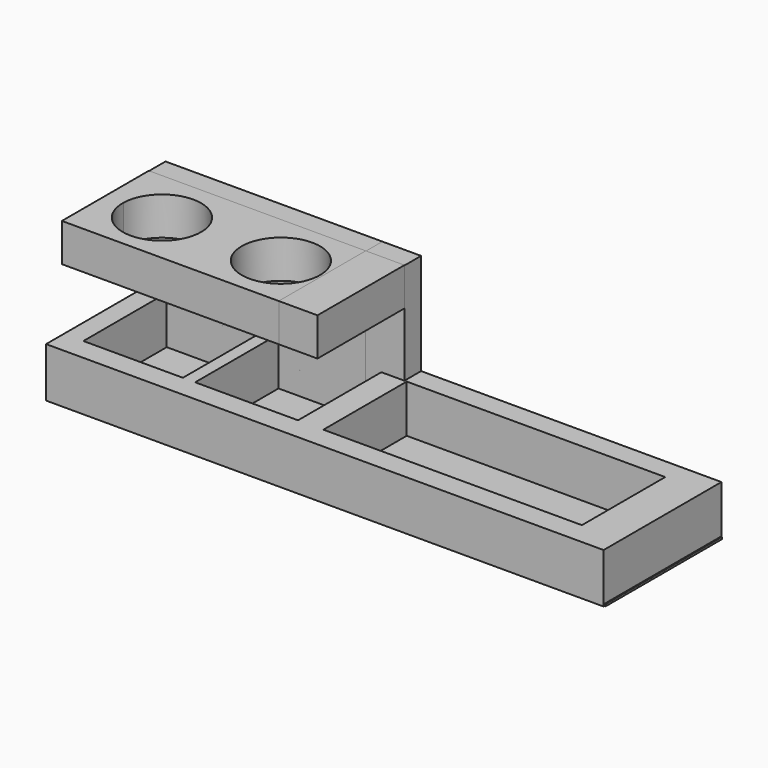
from build123d import *

# Parameters (mm, degrees)
F0_W       = 4.9786263525
F0_H       = 26.6018912433
F0_W_2     = 3.1365140617
F0_W_3     = 6.4744432457
F0_W_4     = 10.0902765989
F1_DEPTH   = 12.7
F2_W       = 142.7084766328
F2_H       = 37.0778064243
F3_DEPTH   = 0.508
F4_W       = 55.372
F4_H       = 57.9078740149
F5_DEPTH   = 5.3221732378
F6_W       = 55.372
F6_H       = 9.7205181286
F7_DEPTH   = 27.75094
F9_DEPTH   = 10.61823
F10_DEPTH  = 9.88126
F11_DEPTH  = 9.88126
F5_FACE2_W = 55.372
F5_FACE2_H = 5.3221732378
F10_FACE_W = 9.88126
F10_FACE_H = 5.3221732378
F12_DEPTH  = 19.31216


with BuildPart() as f1:
    # F0 (on Top) → F1 (new body)
    with BuildSketch(Plane.XY):
        with Locations((-53.2893131763, -13.3009456217)):
            Rectangle(F0_W, F0_H)
        Polygon((10.4725733399, -26.6018912433), (3.9981300943, -26.6018912433), (0, -26.6018912433), (-22.2634859383, -26.6018912433), (-25.4, -26.6018912433), (-50.8, -26.6018912433), (-55.7786263525, -26.6018912433), (-55.7786263525, -32.287850976), (-24.910023436, -32.287850976), (0, -32.287850976), (10.4725733399, -32.287850976), (86.5653529763, -32.287850976), (86.5653529763, -26.6018912433), (76.4750763774, -26.6018912433), align=None)
        Polygon((-22.2634859383, 0), (0, 0), (3.9981300943, 0), (10.4725733399, 0), (76.4750763774, 0), (86.5653529763, 0), (86.5653529763, 5.3221732378), (-55.7786263525, 5.3221732378), (-55.7786263525, 0), (-50.8, 0), (-25.4, 0), align=None)
        with Locations((-23.8317429692, -13.3009456217)):
            Rectangle(F0_W_2, F0_H)
        with Locations((7.2353517171, -13.3009456217)):
            Rectangle(F0_W_3, F0_H)
        with Locations((81.5202146769, -13.3009456217)):
            Rectangle(F0_W_4, F0_H)
    extrude(amount=F1_DEPTH)


with BuildPart() as f3:
    # F2 (on Top) → F3 (new body)
    with BuildSketch(Plane.XY):
        with Locations((15.4770556837, -13.3941362146)):
            Rectangle(F2_W, F2_H)
    extrude(amount=F3_DEPTH)


with BuildPart() as f5:
    # F4 (on Front) → F5 (new body, through all)
    with BuildSketch(Plane.XZ):
        with Locations((-27.686, 28.9539370074)):
            Rectangle(F4_W, F4_H)
    extrude(amount=-F5_DEPTH)


with BuildPart() as f7:
    # F6 (on face) → F7 (new body)
    with BuildSketch(Plane.XZ):
        with Locations((-27.686, 33.8141960718)):
            Rectangle(F6_W, F6_H)
    extrude(amount=F7_DEPTH)

    # F8 (on face) → F9 (cut)
    with BuildSketch(Plane.XY.offset(38.6744551361)):
        with BuildLine():
            ThreePointArc((-50.6908426751, -13.87547), (-40.8375723886, -24.1597420764), (-30.6949130145, -14.160759713))
            ThreePointArc((-30.6949130145, -14.160759713), (-30.6959306511, -14.018100339), (-30.6989833539, -13.87547))
            Line((-30.6989833539, -13.87547), (-50.6908426751, -13.87547))
        make_face()
        with BuildLine():
            ThreePointArc((-0.5591397732, -13.87547), (-10.5591397732, -3.87547), (-20.5591397732, -13.87547))
            Line((-20.5591397732, -13.87547), (-0.5591397732, -13.87547))
        make_face()
        with BuildLine():
            Line((-0.5591397732, -13.87547), (-20.5591397732, -13.87547))
            ThreePointArc((-20.5591397732, -13.87547), (-10.5591397732, -23.87547), (-0.5591397732, -13.87547))
        make_face()
        with BuildLine():
            Line((-50.6908426751, -13.87547), (-30.6989833539, -13.87547))
            ThreePointArc((-30.6989833539, -13.87547), (-40.6949130145, -4.160759713), (-50.6908426751, -13.87547))
        make_face()
    extrude(amount=-F9_DEPTH, mode=Mode.SUBTRACT)


with BuildPart() as f10:
    # F10 (new): a face of the model
    f10_faces = [f5.part.faces().sort_by_distance(p)[0] for p in [
        (0, 2.6610866189, 28.9539370074),
    ]]
    extrude(f10_faces, amount=F10_DEPTH)


with BuildPart() as f11:
    # F11 (new, through all): a face of the model
    f11_faces = [f7.part.faces().sort_by_distance(p)[0] for p in [
        (0, -13.87547, 33.8141960718),
    ]]
    extrude(f11_faces, amount=F11_DEPTH)


with BuildPart() as f12_tool:
    # F5_face2 (on face) + F10_face (on face) → F12 (new body)
    with BuildSketch(Plane(origin=(-27.686, 2.6610866189, 57.9078740149), x_dir=(1, 0, 0), z_dir=(0, 0, 1))):
        Rectangle(F5_FACE2_W, F5_FACE2_H)
    with BuildSketch(Plane(origin=(4.94063, 2.6610866189, 57.9078740149), x_dir=(1, 0, 0), z_dir=(0, 0, 1))):
        Rectangle(F10_FACE_W, F10_FACE_H)
    extrude(amount=-F12_DEPTH)


with BuildPart() as f5_1:
    add(f5.part)

    # F12: cut by f12_tool
    add(f12_tool.part, mode=Mode.SUBTRACT)


with BuildPart() as f10_1:
    add(f10.part)

    # F12: cut by f12_tool
    add(f12_tool.part, mode=Mode.SUBTRACT)


solid = Compound([f1.part, f3.part, f7.part, f11.part, f5_1.part, f10_1.part])
